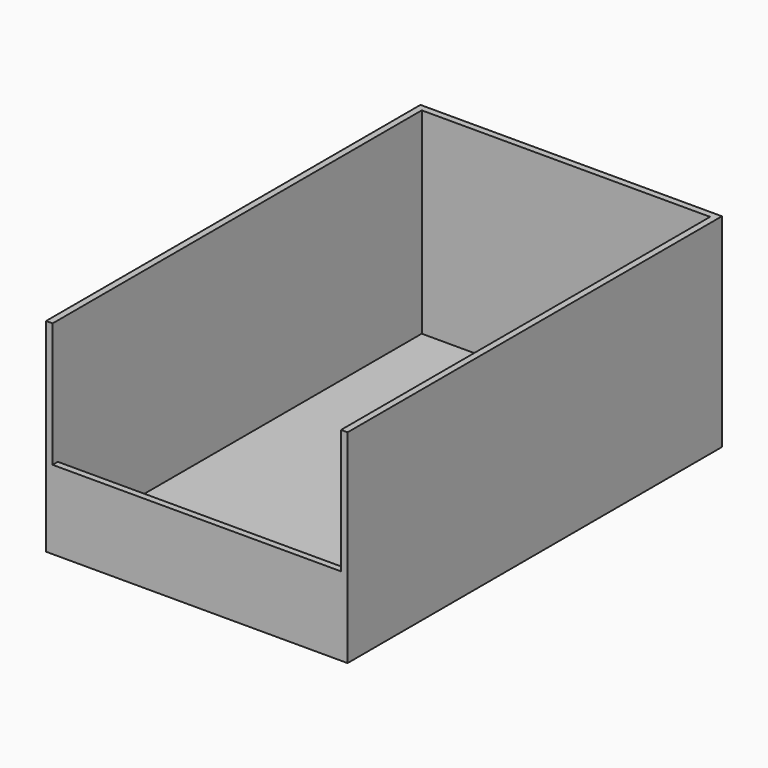
from build123d import *

# Parameters (mm, degrees)
F0_W     = 50.8
F0_H     = 6.35
F0_W_2   = 177.8
F1_DEPTH = 453.39
F2_DEPTH = 6.35
F3_W     = 292.1
F3_H     = 196.85
F4_DEPTH = 6.35


with BuildPart() as f1:
    # F0 (on Front) → F1 (new body)
    with BuildSketch(Plane.XZ):
        Polygon((-139.7, -92.075), (-139.7, -22.225), (-139.7, 98.425), (-146.05, 98.425), (-146.05, -98.425), (-139.7, -98.425), align=None)
        with Locations((-114.3, -95.25)):
            Rectangle(F0_W, F0_H)
        with Locations((114.3, -95.25)):
            Rectangle(F0_W, F0_H)
        Polygon((146.05, -98.425), (146.05, 98.425), (139.7, 98.425), (139.7, -22.225), (139.7, -92.075), (139.7, -98.425), align=None)
        with Locations((0, -95.25)):
            Rectangle(F0_W_2, F0_H)
    extrude(amount=-F1_DEPTH)

    # F0 (on Front) → F2 (join)
    with BuildSketch(Plane.XZ):
        Polygon((139.7, -92.075), (139.7, -22.225), (-139.7, -22.225), (-139.7, -92.075), (-88.9, -92.075), (88.9, -92.075), align=None)
        with Locations((0, -95.25)):
            Rectangle(F0_W_2, F0_H)
        with Locations((-114.3, -95.25)):
            Rectangle(F0_W, F0_H)
        with Locations((114.3, -95.25)):
            Rectangle(F0_W, F0_H)
    extrude(amount=-F2_DEPTH)

    # F3 (on face) → F4 (join)
    with BuildSketch(Plane(origin=(0, 453.39, 0), x_dir=(-1, 0, 0), z_dir=(0, 1, 0))):
        Rectangle(F3_W, F3_H)
    extrude(amount=-F4_DEPTH)


solid = f1.part
